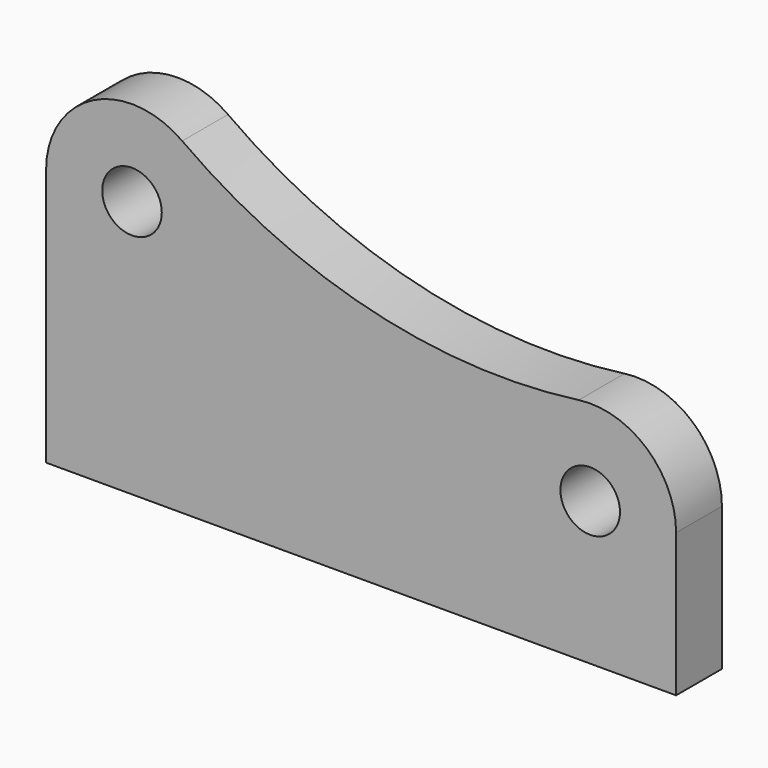
from build123d import *

# Parameters (mm, degrees)
F0_R     = 3.302
F1_DEPTH = 6.35


with BuildPart() as f1:
    # F0 (on Front) → F1 (new body)
    with BuildSketch(Plane.XZ):
        with BuildLine():
            ThreePointArc((5.56559, 7.729802), (-4.342429, 8.477555), (-9.525, 0))
            Line((-9.525, 0), (-9.525, -28.575))
            Line((-9.525, -28.575), (60.325, -28.575))
            Line((60.325, -28.575), (60.325, -12.7))
            ThreePointArc((60.325, -12.7), (57.068884, -5.528758), (49.526739, -3.260486))
            ThreePointArc((49.526739, -3.260486), (26.49203, -1.981882), (5.56559, 7.729802))
        make_face()
        with Locations((50.8, -12.7)):
            Circle(F0_R, mode=Mode.SUBTRACT)
        Circle(F0_R, mode=Mode.SUBTRACT)
    extrude(amount=F1_DEPTH)


solid = f1.part
